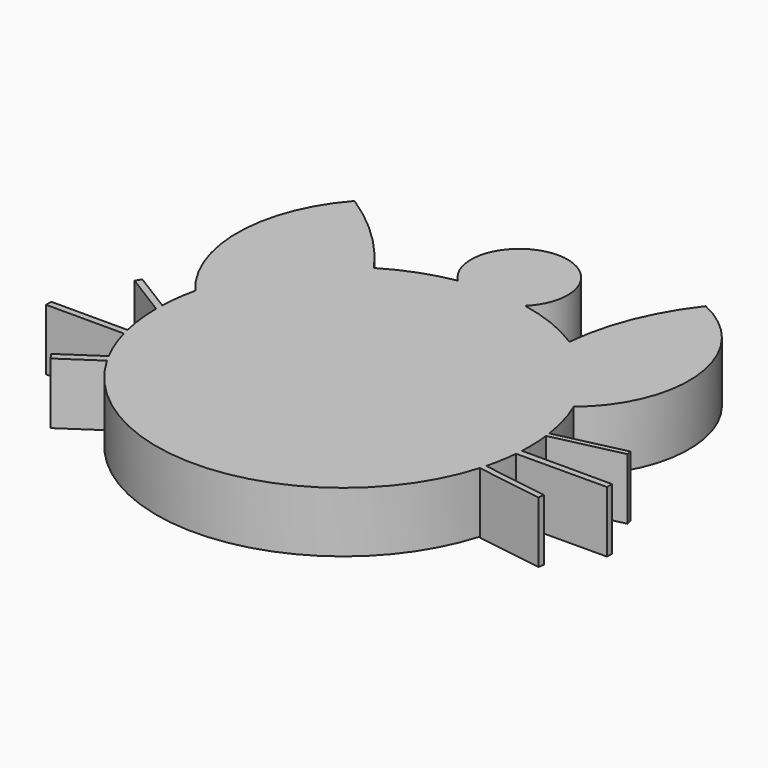
from build123d import *

# Parameters (mm, degrees)
F1_DEPTH = 46.9760447741
F3_DEPTH = 48.9080855623
F6_DEPTH = 47.6816631854


with BuildPart() as f1:
    # F0 (on Top) → F1 (new body)
    with BuildSketch(Plane.XY):
        with BuildLine():
            ThreePointArc((-71.2393962349, 32.9179256613), (53.631854808, -144.2703545516), (215.4174560814, 0))
            ThreePointArc((215.4174560814, 0), (212.4239330052, 29.333743716), (203.5667803118, 57.4581200997))
            ThreePointArc((203.5667803118, 57.4581200997), (180.7556781079, 94.1574324953), (148.1557889137, 122.5199630346))
            ThreePointArc((148.1557889137, 122.5199630346), (71.7340942101, 145.2103590343), (-5.1502163644, 124.140658527))
            ThreePointArc((-5.1502163644, 124.140658527), (-47.4003805504, 85.1985600864), (-71.2393962349, 32.9179256613))
        make_face()
        with BuildLine():
            ThreePointArc((148.1557889137, 122.5199630346), (180.7556781079, 94.1574324953), (203.5667803118, 57.4581200997))
            ThreePointArc((203.5667803118, 57.4581200997), (236.1595707678, 139.7134864477), (183.5359483957, 210.840061307))
            ThreePointArc((183.5359483957, 210.840061307), (159.5565215905, 169.199462517), (148.1557889137, 122.5199630346))
        make_face()
        with BuildLine():
            ThreePointArc((-69.5170983672, 185.6363117695), (-98.925732723, 109.5990660233), (-71.2393962349, 32.9179256613))
            ThreePointArc((-71.2393962349, 32.9179256613), (-47.4003805504, 85.1985600864), (-5.1502163644, 124.140658527))
            ThreePointArc((-5.1502163644, 124.140658527), (-34.3996197413, 157.9595128325), (-69.5170983672, 185.6363117695))
        make_face()
    extrude(amount=-F1_DEPTH)

    # F2 (on face) → F3 (join)
    with BuildSketch(Plane.XY):
        with BuildLine():
            ThreePointArc((44.9946392241, 143.0144957499), (71.2893502257, 145.2143795795), (97.5480618405, 142.6198892915))
            ThreePointArc((97.5480618405, 142.6198892915), (71.7551928662, 207.2549889957), (44.9946392241, 143.0144957499))
        make_face()
    extrude(amount=-F3_DEPTH)

    # F5 (on face) → F6 (join)
    with BuildSketch(Plane.XY):
        with BuildLine():
            ThreePointArc((-75.0189256599, -0.404913858), (-74.9976500667, 2.5184711417), (-74.917529707, 5.4408354645))
            Line((-74.917529707, 5.4408354645), (-105.7080030441, 24.6027484536))
            Line((-105.7080030441, 24.6027484536), (-108.3586743244, 20.3434960801))
            Line((-108.3586743244, 20.3434960801), (-75.0189256599, -0.404913858))
        make_face()
        with BuildLine():
            ThreePointArc((-69.9400027769, -38.0719006061), (-70.6055307061, -35.5315897531), (-71.2250142357, -32.9796597362))
            Line((-71.2250142357, -32.9796597362), (-130.4813623428, -32.9796597362))
            Line((-130.4813623428, -32.9796597362), (-130.4813623428, -38.0719006062))
            Line((-130.4813623428, -38.0719006062), (-69.9400027769, -38.0719006062))
        make_face()
        with BuildLine():
            ThreePointArc((-55.7230830607, -72.3328295314), (-57.207340031, -69.6852480865), (-58.6359381198, -67.0072238594))
            Line((-58.6359381198, -67.0072238594), (-87.6557826996, -86.5481868386))
            Line((-87.6557826996, -86.5481868386), (-84.2797279511, -91.561889807))
            Line((-84.2797279511, -91.561889807), (-55.7230830607, -72.3328295314))
        make_face()
        with BuildLine():
            ThreePointArc((215.2245101702, -7.483407855), (215.0646070932, -10.1171082931), (214.8568793088, -12.747468755))
            Line((214.8568793088, -12.747468755), (285.2909564972, -12.4354660511))
            Line((285.2909564972, -12.4354660511), (285.3941321373, -7.483407855))
            Line((285.3941321373, -7.483407855), (215.2245101702, -7.483407855))
        make_face()
        with BuildLine():
            ThreePointArc((210.7247036656, -36.618666769), (210.1115019764, -38.8959118449), (209.4613997229, -41.1628985028))
            Line((209.4613997229, -41.1628985028), (261.3650764015, -49.1495164643))
            Line((261.3650764015, -49.1495164643), (262.0773613453, -44.5204973221))
            Line((262.0773613453, -44.5204973221), (210.7247036656, -36.618666769))
        make_face()
        with BuildLine():
            Line((267.1763300896, 32.936360687), (213.9242377293, 20.7715208216))
            ThreePointArc((213.9242377293, 20.7715208216), (214.1894129137, 18.8457161569), (214.4287850178, 16.9165343406))
            Line((214.4287850178, 16.9165343406), (268.0576479304, 29.0783551911))
            Line((268.0576479304, 29.0783551911), (267.1763300896, 32.936360687))
        make_face()
    extrude(amount=-F6_DEPTH)


solid = f1.part
